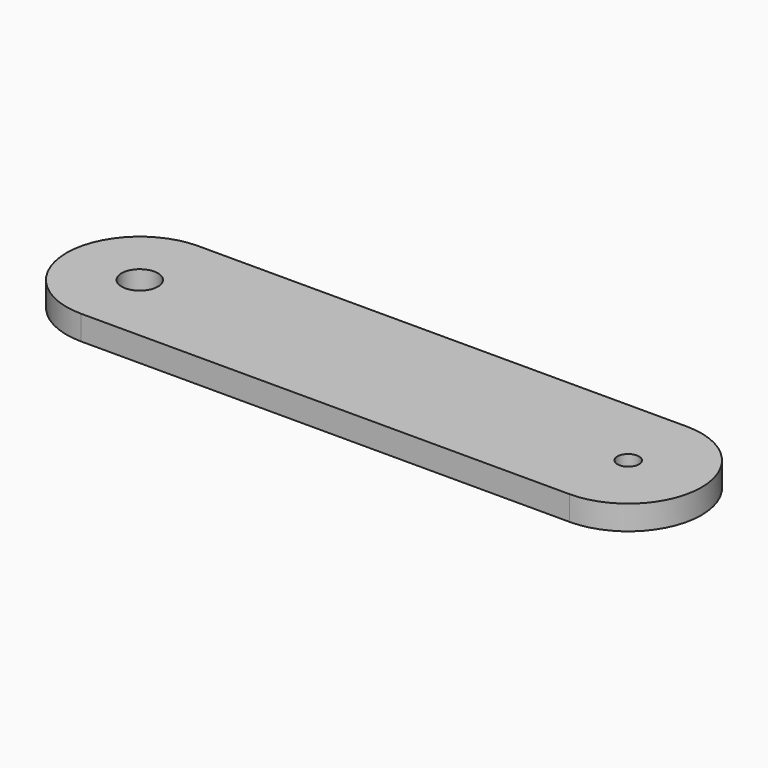
from build123d import *

# Parameters (mm, degrees)
F0_R     = 2.3622
F0_R_2   = 1.397
F1_DEPTH = 3.175


with BuildPart() as f1:
    # F0 (on Top) → F1 (new body)
    with BuildSketch(Plane.XY):
        with BuildLine():
            ThreePointArc((63.5, -9.525), (73.025, 0), (63.5, 9.525))
            Line((63.5, 9.525), (0, 9.525))
            ThreePointArc((0, 9.525), (-9.525, 0), (0, -9.525))
            Line((0, -9.525), (63.5, -9.525))
        make_face()
        Circle(F0_R, mode=Mode.SUBTRACT)
        with Locations((63.5, 0)):
            Circle(F0_R_2, mode=Mode.SUBTRACT)
    extrude(amount=F1_DEPTH)


solid = f1.part
